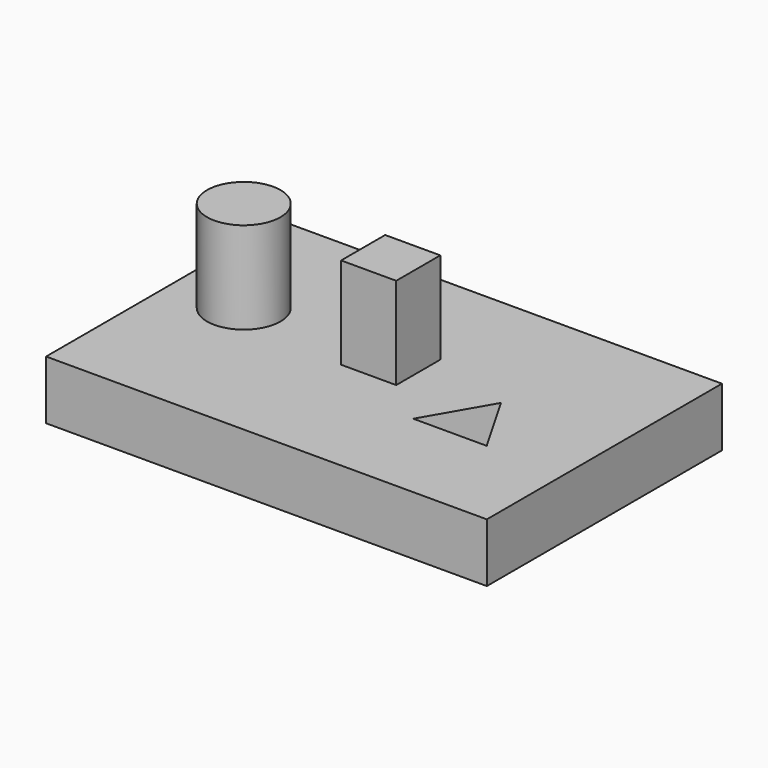
from build123d import *

# Parameters (mm, degrees)
F0_R     = 12.7
F0_W     = 152.4
F0_H     = 101.6
F1_DEPTH = 20.32
F2_DEPTH = 52.07
F3_DEPTH = 52.07


with BuildPart() as f1:
    # F0 (on Top) → F1 (new body)
    with BuildSketch(Plane.XY):
        with Locations((-82.55, 0)):
            Circle(F0_R)
        with Locations((-30.279235, -4.731591)):
            Rectangle(F0_W, F0_H)
        Polygon((-6.35, -21.997045), (6.35, 0), (19.05, -21.997045), align=None, mode=Mode.SUBTRACT)
        with Locations((-82.55, 0)):
            Circle(F0_R, mode=Mode.SUBTRACT)
        Polygon((-22.225, 9.525), (-22.225, 0), (-22.225, -9.525), (-41.275, -9.525), (-41.275, 0), (-41.275, 9.525), align=None, mode=Mode.SUBTRACT)
    extrude(amount=F1_DEPTH)

    # F0 (on Top) → F2 (join)
    with BuildSketch(Plane.XY):
        Polygon((-22.225, -9.525), (-22.225, 0), (-31.75, 0), (-41.275, 0), (-41.275, -9.525), align=None)
        Polygon((-31.75, 0), (-22.225, 0), (-22.225, 9.525), (-41.275, 9.525), (-41.275, 0), align=None)
    extrude(amount=F2_DEPTH)

    # F0 (on Top) → F3 (join)
    with BuildSketch(Plane.XY):
        with Locations((-82.55, 0)):
            Circle(F0_R)
    extrude(amount=F3_DEPTH)


solid = f1.part
